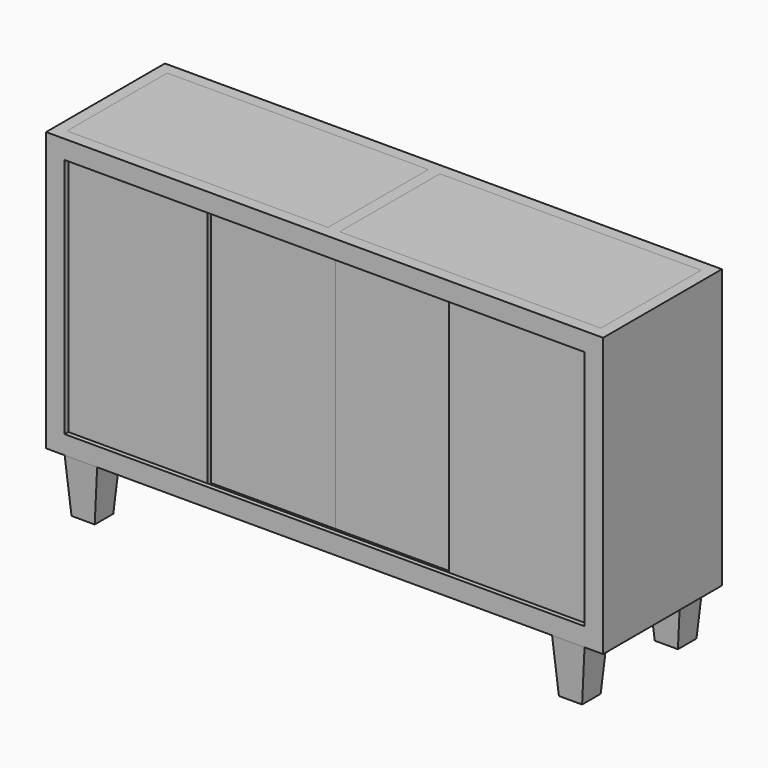
from build123d import *

# Parameters (mm, degrees)
F1_DEPTH  = 406.4
F3_W      = 1422.4
F3_H      = 660.4
F4_DEPTH  = 12.7
F6_W      = 1447.8
F6_H      = 692.15
F7_DEPTH  = 25.4
F8_W      = 393.7
F8_H      = 679.45
F9_DEPTH  = 12.192
F10_W     = 393.7
F10_H     = 12.7
F10_H_2   = 660.4
F10_H_3   = 6.35
F11_DEPTH = 12.446
F12_DEPTH = 12.7
F14_DEPTH = 1524.001
F15_W     = 714.375
F15_H     = 342.9
F16_DEPTH = 12.7
F17_DEPTH = 12.7


with BuildPart() as f1:
    # F0 (on Front) → F1 (new body)
    with BuildSketch(Plane.XZ):
        Polygon((-622.3, 0), (0, 0), (622.3, 0), (711.2, 0), (762, 0), (762, 762), (0, 762), (-762, 762), (-762, 0), (-711.2, 0), align=None)
        Polygon((-711.2, 711.2), (0, 711.2), (711.2, 711.2), (711.2, 495.3), (711.2, 473.075), (711.2, 288.925), (711.2, 266.7), (711.2, 50.8), (0, 50.8), (-711.2, 50.8), (-711.2, 266.7), (-711.2, 288.925), (-711.2, 473.075), (-711.2, 495.3), align=None, mode=Mode.SUBTRACT)
        Polygon((711.2, 0), (622.3, 0), (635, -145.1616642451), (698.5, -145.1616642451), align=None)
        Polygon((-635, -145.1616642451), (-622.3, 0), (-711.2, 0), (-698.5, -145.1616642451), align=None)
    extrude(amount=-F1_DEPTH)

    # F6 (on offset) → F7 (cut)
    with BuildSketch(Plane.XZ.offset(-12.7)):
        with Locations((0, 384.175)):
            Rectangle(F6_W, F6_H)
    extrude(amount=-F7_DEPTH, mode=Mode.SUBTRACT)

    # F13 (on face) → F14 (cut, through all)
    with BuildSketch(Plane(origin=(-762, 0, 0), x_dir=(0, -1, 0), z_dir=(-1, 0, 0))):
        Polygon((113.1209731102, 0), (0, 0), (-7.6076004601, -145.1616642451), (-71.1076004601, -145.1616642451), (-78.7152009202, 0), (-327.6847990798, 0), (-335.2923995399, -145.1616642451), (-398.7923995399, -145.1616642451), (-406.4, 0), (-529.3149352074, 0), (-529.3149352074, -225.6401926279), (113.1209731102, -225.6401926279), align=None)
    extrude(amount=-F14_DEPTH, mode=Mode.SUBTRACT)

    # F15 (on face) → F16 (cut)
    with BuildSketch(Plane.XY.offset(762)):
        with Locations((-373.0625, 203.2)):
            Rectangle(F15_W, F15_H)
        with Locations((373.0625, 203.2)):
            Rectangle(F15_W, F15_H)
    extrude(amount=-F16_DEPTH, mode=Mode.SUBTRACT)


with BuildPart() as f4:
    # F3 (on offset) → F4 (new body)
    with BuildSketch(Plane(origin=(0, 406.4, 0), x_dir=(-1, 0, 0), z_dir=(0, 1, 0))):
        with Locations((0, 381)):
            Rectangle(F3_W, F3_H)
    extrude(amount=-F4_DEPTH)


with BuildPart() as f9:
    # F8 (on offset) → F9 (new body)
    with BuildSketch(Plane.XZ.offset(-12.7)):
        with Locations((-527.05, 377.825)):
            Rectangle(F8_W, F8_H)
    extrude(amount=-F9_DEPTH)


with BuildPart() as f9b:
    # F8 (on offset) → F9, piece 2 (new body)
    with BuildSketch(Plane.XZ.offset(-12.7)):
        with Locations((527.05, 377.825)):
            Rectangle(F8_W, F8_H)
    extrude(amount=-F9_DEPTH)


with BuildPart() as f11:
    # F10 (on face) → F11 (new body)
    with BuildSketch(Plane.XZ.offset(-38.1)):
        with Locations((-196.9368773937, 44.45)):
            Rectangle(F10_W, F10_H)
        with Locations((-196.9368773937, 381)):
            Rectangle(F10_W, F10_H_2)
        with Locations((-196.9368773937, 714.375)):
            Rectangle(F10_W, F10_H_3)
    extrude(amount=-F11_DEPTH)


with BuildPart() as f12:
    # F10 (on face) → F12 (new body)
    with BuildSketch(Plane.XZ.offset(-38.1)):
        with Locations((196.7631226063, 381)):
            Rectangle(F10_W, F10_H_2)
        with Locations((196.7631226063, 714.375)):
            Rectangle(F10_W, F10_H_3)
        with Locations((196.7631226063, 44.45)):
            Rectangle(F10_W, F10_H)
    extrude(amount=-F12_DEPTH)


with BuildPart() as f17:
    # F17 (new): a face of the model
    f17_faces = [f1.part.faces().sort_by_distance(p)[0] for p in [
        (-373.0625, 203.2, 749.3),
    ]]
    extrude(f17_faces, amount=F17_DEPTH)


with BuildPart() as f17b:
    # F17#2 (new): a face of the model
    f17_2_faces = [f1.part.faces().sort_by_distance(p)[0] for p in [
        (373.0625, 203.2, 749.3),
    ]]
    extrude(f17_2_faces, amount=F17_DEPTH)


solid = Compound([f1.part, f4.part, f9.part, f9b.part, f11.part, f12.part, f17.part, f17b.part])
